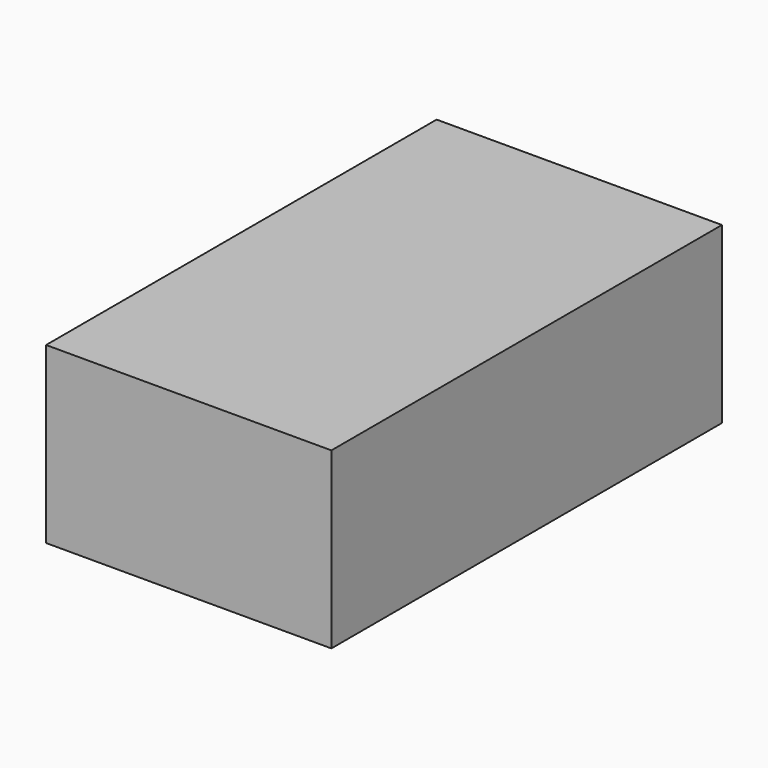
from build123d import *

# Parameters (mm, degrees)
F0_W     = 90
F0_H     = 154
F0_W_2   = 85
F0_H_2   = 150
F0_W_3   = 80
F0_H_3   = 146
F1_DEPTH = 3
F2_DEPTH = 50
F3_DEPTH = 52
F4_R     = 5
F5_DEPTH = 5


with BuildPart() as f1:
    # F0 (on Top) → F1 (new body)
    with BuildSketch(Plane.XY):
        Rectangle(F0_W, F0_H)
        Rectangle(F0_W_2, F0_H_2, mode=Mode.SUBTRACT)
        Rectangle(F0_W_2, F0_H_2)
        Rectangle(F0_W_3, F0_H_3, mode=Mode.SUBTRACT)
        Rectangle(F0_W_3, F0_H_3)
    extrude(amount=F1_DEPTH)

    # F0 (on Top) → F2 (join)
    with BuildSketch(Plane.XY):
        Rectangle(F0_W, F0_H)
        Rectangle(F0_W_2, F0_H_2, mode=Mode.SUBTRACT)
        Rectangle(F0_W_2, F0_H_2)
        Rectangle(F0_W_3, F0_H_3, mode=Mode.SUBTRACT)
    extrude(amount=-F2_DEPTH)

    # F0 (on Top) → F3 (join)
    with BuildSketch(Plane.XY):
        Rectangle(F0_W, F0_H)
        Rectangle(F0_W_2, F0_H_2, mode=Mode.SUBTRACT)
    extrude(amount=-F3_DEPTH)

    # F4 (on face) → F5 (cut)
    with BuildSketch(Plane(origin=(0, 77, 0), x_dir=(-1, 0, 0), z_dir=(0, 1, 0))):
        with Locations((0, -7)):
            Circle(F4_R)
    extrude(amount=-F5_DEPTH, mode=Mode.SUBTRACT)


solid = f1.part
